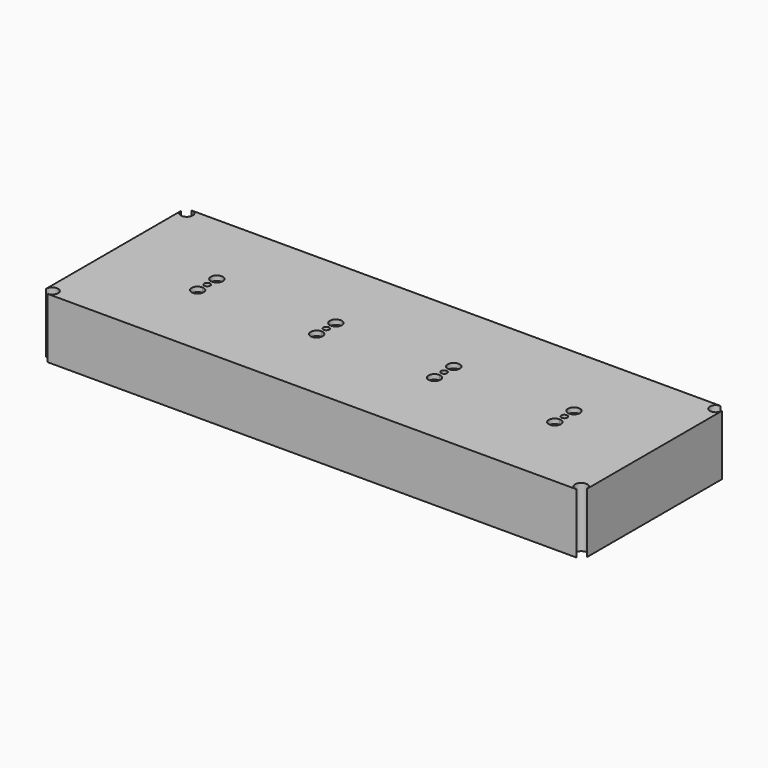
from build123d import *

# Parameters (mm, degrees)
F0_R     = 20
F1_DEPTH = 50
F3_DEPTH = 46
F4_R     = 2


with BuildPart() as f1:
    # F0 (on Top) → F1 (new body)
    with BuildSketch(Plane.XY):
        with BuildLine():
            Line((220, 75), (-220, 75))
            ThreePointArc((-220, 75), (-216.464466, 73.535534), (-215, 70))
            ThreePointArc((-215, 70), (-220, 65), (-225, 70))
            Line((-225, 70), (-225, -70))
            ThreePointArc((-225, -70), (-220, -65), (-215, -70))
            ThreePointArc((-215, -70), (-216.464466, -73.535534), (-220, -75))
            Line((-220, -75), (220, -75))
            ThreePointArc((220, -75), (216.464466, -66.464466), (225, -70))
            Line((225, -70), (225, 70))
            ThreePointArc((225, 70), (216.464466, 66.464466), (220, 75))
        make_face()
        with Locations((-147, 0)):
            Circle(F0_R, mode=Mode.SUBTRACT)
        with BuildLine():
            ThreePointArc((-68, 0), (-48, 20), (-28, 0))
            ThreePointArc((-28, 0), (-48, -20), (-68, 0))
        make_face(mode=Mode.SUBTRACT)
        with BuildLine():
            ThreePointArc((70, 0), (50, -20), (30, 0))
            ThreePointArc((30, 0), (50, 20), (70, 0))
        make_face(mode=Mode.SUBTRACT)
        with BuildLine():
            ThreePointArc((170, 0), (150, -20), (130, 0))
            ThreePointArc((130, 0), (150, 20), (170, 0))
        make_face(mode=Mode.SUBTRACT)
        with Locations((-147, 0)):
            Circle(F0_R)
        with BuildLine():
            ThreePointArc((-142, -10), (-150.535534, -13.535534), (-147, -5))
            ThreePointArc((-147, -5), (-143.464466, -6.464466), (-142, -10))
        make_face(mode=Mode.SUBTRACT)
        with BuildLine():
            ThreePointArc((-147, 2.5), (-145.232233, 1.767767), (-144.5, 0))
            ThreePointArc((-144.5, 0), (-145.232233, -1.767767), (-147, -2.5))
            ThreePointArc((-147, -2.5), (-149.5, 0), (-147, 2.5))
        make_face(mode=Mode.SUBTRACT)
        with BuildLine():
            ThreePointArc((-142, 10), (-143.464466, 6.464466), (-147, 5))
            ThreePointArc((-147, 5), (-150.535534, 13.535534), (-142, 10))
        make_face(mode=Mode.SUBTRACT)
        with BuildLine():
            ThreePointArc((170, 0), (150, 20), (130, 0))
            ThreePointArc((130, 0), (150, -20), (170, 0))
        make_face()
        with BuildLine():
            ThreePointArc((155, -10), (146.464466, -13.535534), (150, -5))
            ThreePointArc((150, -5), (153.535534, -6.464466), (155, -10))
        make_face(mode=Mode.SUBTRACT)
        with BuildLine():
            ThreePointArc((150, -2.5), (148.232233, -1.767767), (147.5, 0))
            ThreePointArc((147.5, 0), (148.232233, 1.767767), (150, 2.5))
            ThreePointArc((150, 2.5), (151.767767, 1.767767), (152.5, 0))
            ThreePointArc((152.5, 0), (151.767767, -1.767767), (150, -2.5))
        make_face(mode=Mode.SUBTRACT)
        with BuildLine():
            ThreePointArc((155, 10), (153.535534, 6.464466), (150, 5))
            ThreePointArc((150, 5), (146.464466, 13.535534), (155, 10))
        make_face(mode=Mode.SUBTRACT)
        with BuildLine():
            ThreePointArc((70, 0), (50, 20), (30, 0))
            Line((30, 0), (47.5, 0))
            ThreePointArc((47.5, 0), (48.232233, 1.767767), (50, 2.5))
            ThreePointArc((50, 2.5), (51.767767, 1.767767), (52.5, 0))
            Line((52.5, 0), (70, 0))
        make_face()
        with BuildLine():
            ThreePointArc((55, 10), (53.535534, 6.464466), (50, 5))
            ThreePointArc((50, 5), (46.464466, 13.535534), (55, 10))
        make_face(mode=Mode.SUBTRACT)
        with BuildLine():
            Line((47.5, 0), (30, 0))
            ThreePointArc((30, 0), (50, -20), (70, 0))
            Line((70, 0), (52.5, 0))
            ThreePointArc((52.5, 0), (51.767767, -1.767767), (50, -2.5))
            ThreePointArc((50, -2.5), (48.232233, -1.767767), (47.5, 0))
        make_face()
        with BuildLine():
            ThreePointArc((55, -10), (46.464466, -13.535534), (50, -5))
            ThreePointArc((50, -5), (53.535534, -6.464466), (55, -10))
        make_face(mode=Mode.SUBTRACT)
        with BuildLine():
            Line((-45.5, 0), (-28, 0))
            ThreePointArc((-28, 0), (-48, 20), (-68, 0))
            Line((-68, 0), (-50.5, 0))
            ThreePointArc((-50.5, 0), (-49.767767, 1.767767), (-48, 2.5))
            ThreePointArc((-48, 2.5), (-46.232233, 1.767767), (-45.5, 0))
        make_face()
        with BuildLine():
            ThreePointArc((-43, 10), (-44.464466, 6.464466), (-48, 5))
            ThreePointArc((-48, 5), (-51.535534, 13.535534), (-43, 10))
        make_face(mode=Mode.SUBTRACT)
        with BuildLine():
            ThreePointArc((-68, 0), (-48, -20), (-28, 0))
            Line((-28, 0), (-45.5, 0))
            ThreePointArc((-45.5, 0), (-46.232233, -1.767767), (-48, -2.5))
            ThreePointArc((-48, -2.5), (-49.767767, -1.767767), (-50.5, 0))
            Line((-50.5, 0), (-68, 0))
        make_face()
        with BuildLine():
            ThreePointArc((-43, -10), (-51.535534, -13.535534), (-48, -5))
            ThreePointArc((-48, -5), (-44.464466, -6.464466), (-43, -10))
        make_face(mode=Mode.SUBTRACT)
    extrude(amount=F1_DEPTH)

    # F0 (on Top) → F3 (join)
    with BuildSketch(Plane.XY):
        with BuildLine():
            ThreePointArc((-142, 10), (-150.535534, 13.535534), (-147, 5))
            ThreePointArc((-147, 5), (-143.464466, 6.464466), (-142, 10))
        make_face()
        with BuildLine():
            ThreePointArc((-143, 10), (-144.171573, 7.171573), (-147, 6))
            ThreePointArc((-147, 6), (-149.828427, 12.828427), (-143, 10))
        make_face(mode=Mode.SUBTRACT)
        with BuildLine():
            ThreePointArc((-142, -10), (-143.464466, -6.464466), (-147, -5))
            ThreePointArc((-147, -5), (-150.535534, -13.535534), (-142, -10))
        make_face()
        with BuildLine():
            ThreePointArc((-143, -10), (-149.828427, -12.828427), (-147, -6))
            ThreePointArc((-147, -6), (-144.171573, -7.171573), (-143, -10))
        make_face(mode=Mode.SUBTRACT)
        with BuildLine():
            ThreePointArc((-43, 10), (-51.535534, 13.535534), (-48, 5))
            ThreePointArc((-48, 5), (-44.464466, 6.464466), (-43, 10))
        make_face()
        with BuildLine():
            ThreePointArc((-44, 10), (-45.171573, 7.171573), (-48, 6))
            ThreePointArc((-48, 6), (-50.828427, 12.828427), (-44, 10))
        make_face(mode=Mode.SUBTRACT)
        with BuildLine():
            ThreePointArc((-43, -10), (-44.464466, -6.464466), (-48, -5))
            ThreePointArc((-48, -5), (-51.535534, -13.535534), (-43, -10))
        make_face()
        with BuildLine():
            ThreePointArc((-44, -10), (-50.828427, -12.828427), (-48, -6))
            ThreePointArc((-48, -6), (-45.171573, -7.171573), (-44, -10))
        make_face(mode=Mode.SUBTRACT)
        with BuildLine():
            ThreePointArc((55, -10), (53.535534, -6.464466), (50, -5))
            ThreePointArc((50, -5), (46.464466, -13.535534), (55, -10))
        make_face()
        with BuildLine():
            ThreePointArc((54, -10), (47.171573, -12.828427), (50, -6))
            ThreePointArc((50, -6), (52.828427, -7.171573), (54, -10))
        make_face(mode=Mode.SUBTRACT)
        with BuildLine():
            ThreePointArc((55, 10), (46.464466, 13.535534), (50, 5))
            ThreePointArc((50, 5), (53.535534, 6.464466), (55, 10))
        make_face()
        with BuildLine():
            ThreePointArc((54, 10), (52.828427, 7.171573), (50, 6))
            ThreePointArc((50, 6), (47.171573, 12.828427), (54, 10))
        make_face(mode=Mode.SUBTRACT)
        with BuildLine():
            ThreePointArc((155, 10), (146.464466, 13.535534), (150, 5))
            ThreePointArc((150, 5), (153.535534, 6.464466), (155, 10))
        make_face()
        with BuildLine():
            ThreePointArc((154, 10), (152.828427, 7.171573), (150, 6))
            ThreePointArc((150, 6), (147.171573, 12.828427), (154, 10))
        make_face(mode=Mode.SUBTRACT)
        with BuildLine():
            ThreePointArc((155, -10), (153.535534, -6.464466), (150, -5))
            ThreePointArc((150, -5), (146.464466, -13.535534), (155, -10))
        make_face()
        with BuildLine():
            ThreePointArc((154, -10), (147.171573, -12.828427), (150, -6))
            ThreePointArc((150, -6), (152.828427, -7.171573), (154, -10))
        make_face(mode=Mode.SUBTRACT)
    extrude(amount=F3_DEPTH)

    # F4
    f4_edges = [f1.edges().sort_by_distance(p)[0] for p in [
        (-147, -14, 0),
        (-151, 10, 0),
        (-48, -14, 0),
        (-52, 10, 0),
        (50, -14, 0),
        (46, 10, 0),
        (150, -14, 0),
        (146, 10, 0),
    ]]
    fillet(f4_edges, radius=F4_R)


solid = f1.part
